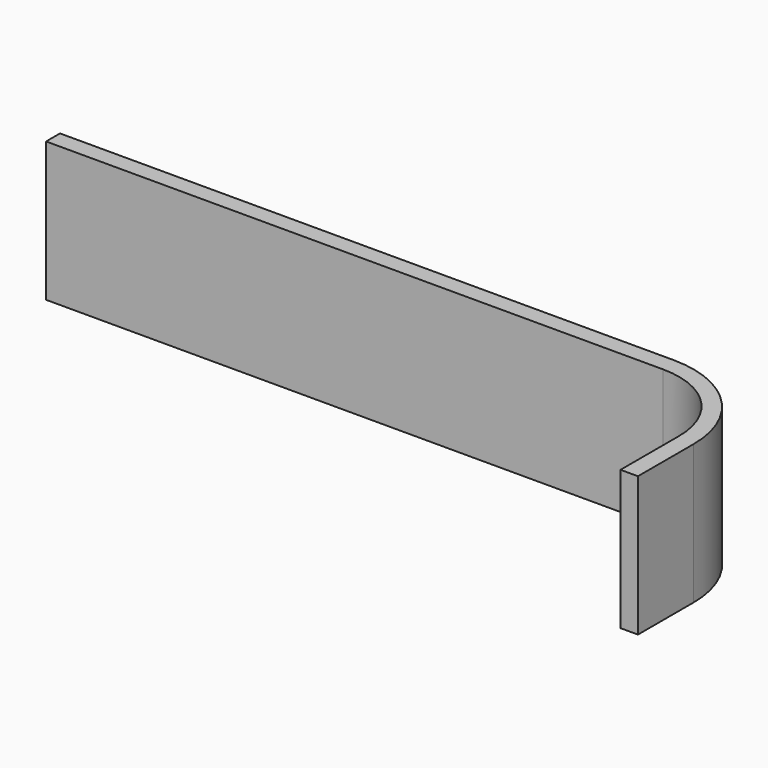
from build123d import *

# Parameters (mm, degrees)
PAD_DEPTH            = 20
BODY_PLACEMENT_ANGLE = 90


with BuildPart() as part:
    # Sketch → Pad (new body)
    with BuildSketch(Plane.XZ):
        with BuildLine():
            Line((0, 2.5), (88, 2.5))
            ThreePointArc((102.5, -12), (98.253048, -1.746952), (88, 2.5))
            Line((102.5, -12), (102.5, -22))
            Line((102.5, -22), (100, -22))
            Line((100, -22), (100, -11.5))
            ThreePointArc((100, -11.5), (96.631728, -3.368272), (88.5, 0))
            Line((88.5, 0), (0, 0))
            Line((0, 0), (0, 2.5))
        make_face()
    extrude(amount=PAD_DEPTH)


with BuildPart() as part_1:
    # Body placement: moved
    add(part.part.rotate(Axis((0, 0, 0), (-1, 0, 0)), BODY_PLACEMENT_ANGLE))


solid = part_1.part
